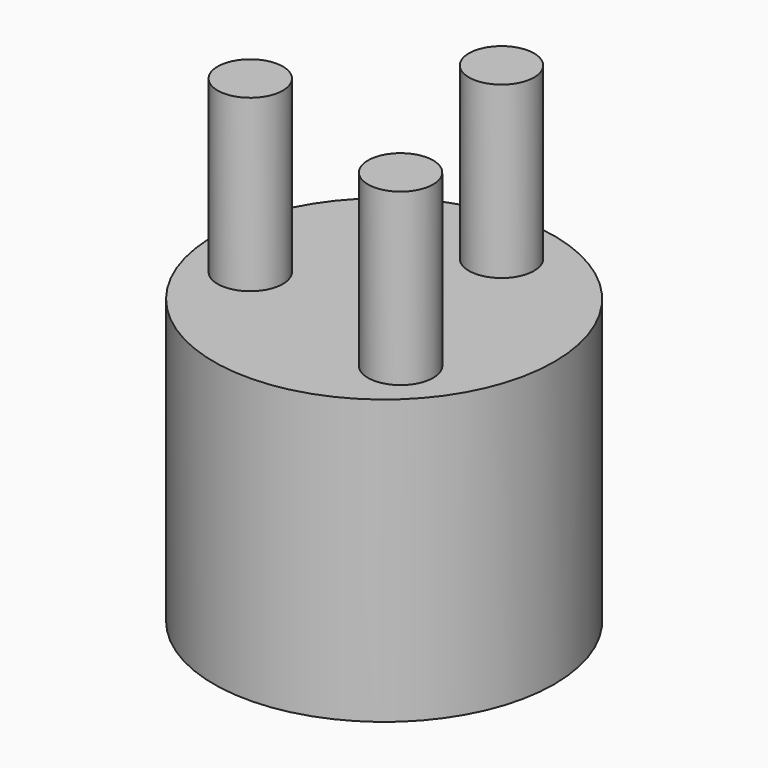
from build123d import *

# Parameters (mm, degrees)
F0_R     = 38.1
F1_DEPTH = 63.5
F2_R     = 7.292745
F3_DEPTH = 101.6


with BuildPart() as f1:
    # F0 (on Top) → F1 (new body)
    with BuildSketch(Plane.XY):
        Circle(F0_R)
    extrude(amount=F1_DEPTH)

    # F2 (on Top) → F3 (join)
    with BuildSketch(Plane.XY):
        with Locations((6.542289, 24.649761)):
            Circle(F2_R)
        with Locations((-24.618464, -6.659092)):
            Circle(F2_R)
        with Locations((18.076175, -17.990669)):
            Circle(F2_R)
    extrude(amount=F3_DEPTH)


solid = f1.part
